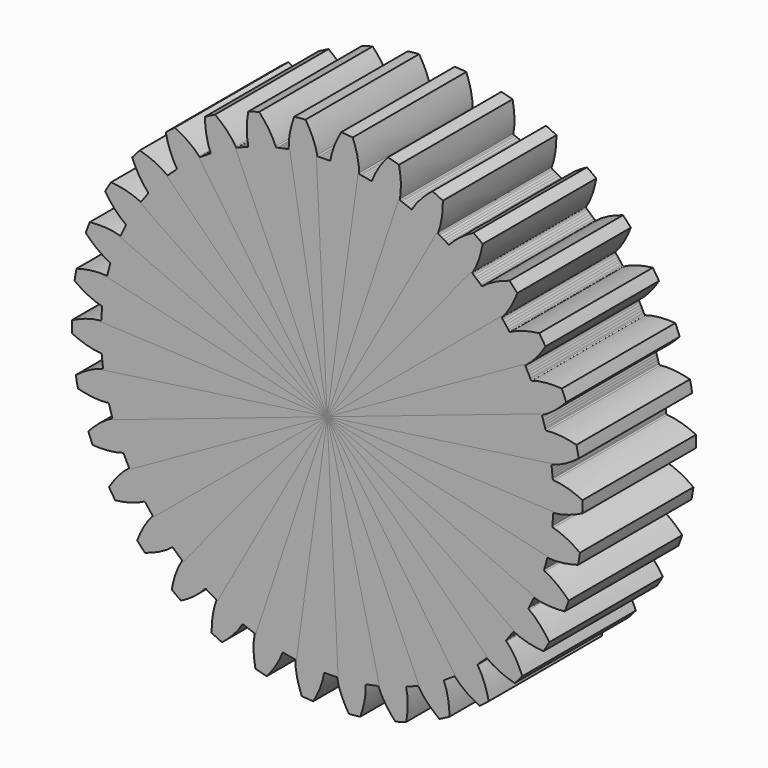
from build123d import *

# Parameters (mm, degrees)
F1_DEPTH = 25
F2_R     = 0.2
F3_COUNT = 34


with BuildPart() as f1:
    # F0 (on Front) → F1 (new body)
    with BuildSketch(Plane.XZ):
        with BuildLine():
            add(Edge.make_bspline(
                [(-1.7657643152, 39.9338909886), (-1.7743142635, 40.0118620388), (-1.8131479136, 40.1960055566), (-1.9222546364, 40.7090321432), (-2.1336710702, 41.4365465137), (-2.4984554805, 42.3913547833), (-3.0385414573, 43.5385206991), (-3.5445909033, 44.3920368913), (-3.809343439, 44.838475694)],
                knots=[0, 0, 0, 0, 0.0922219855, 0.2228701109, 0.3827881039, 0.5674285522, 0.7738514911, 1, 1, 1, 1], degree=3))
            ThreePointArc((-3.809343439, 44.838475694), (-4.8189838537, 44.7412270129), (-5.8261759127, 44.6212468924))
            add(Edge.make_bspline(
                [(-6.7784747845, 39.3939824428), (-6.7867245161, 39.4719858287), (-6.7879940721, 39.6601752964), (-6.7906364793, 40.1846689315), (-6.7389899354, 40.9405172643), (-6.5858942464, 41.9511053148), (-6.3024793733, 43.1869687823), (-5.9897890049, 44.1286697251), (-5.8261759127, 44.6212468924)],
                knots=[0, 0, 0, 0, 0.0922219855, 0.2228701109, 0.3827881039, 0.5674285522, 0.7738514911, 1, 1, 1, 1], degree=3))
            Line((-6.7784747845, 39.3939824428), (-6.756653635, 39.273020404))
            ThreePointArc((-6.756653635, 39.273020404), (-7.9820522362, 39.0424044098), (-9.1996358481, 38.7735631618))
            Line((-9.1996358481, 38.7735631618), (0, 0))
            Line((0, 0), (0.7319806767, 39.8432767765))
            ThreePointArc((0.7319806767, 39.8432767765), (-0.5149250671, 39.8466730377), (-1.7613266632, 39.8110566098))
            Line((-1.7613266632, 39.8110566098), (-1.7657643152, 39.9338909886))
        make_face()
    extrude(amount=F1_DEPTH)

    # F2
    f2_edges = [f1.edges().sort_by_distance(p)[0] for p in [
        (-1.761327, -12.5, 39.811057),
        (-6.756654, -12.5, 39.27302),
    ]]
    fillet(f2_edges, radius=F2_R)


with BuildPart() as f3_1:
    # F3: instance of F1
    add(f1.part.rotate(Axis((0, -12.5, 0), (0, 1, 0)), 1 * 360 / F3_COUNT))


with BuildPart() as f3_2:
    # F3: instance of F1
    add(f1.part.rotate(Axis((0, -12.5, 0), (0, 1, 0)), 2 * 360 / F3_COUNT))


with BuildPart() as f3_3:
    # F3: instance of F1
    add(f1.part.rotate(Axis((0, -12.5, 0), (0, 1, 0)), 3 * 360 / F3_COUNT))


with BuildPart() as f3_4:
    # F3: instance of F1
    add(f1.part.rotate(Axis((0, -12.5, 0), (0, 1, 0)), 4 * 360 / F3_COUNT))


with BuildPart() as f3_5:
    # F3: instance of F1
    add(f1.part.rotate(Axis((0, -12.5, 0), (0, 1, 0)), 5 * 360 / F3_COUNT))


with BuildPart() as f3_6:
    # F3: instance of F1
    add(f1.part.rotate(Axis((0, -12.5, 0), (0, 1, 0)), 6 * 360 / F3_COUNT))


with BuildPart() as f3_7:
    # F3: instance of F1
    add(f1.part.rotate(Axis((0, -12.5, 0), (0, 1, 0)), 7 * 360 / F3_COUNT))


with BuildPart() as f3_8:
    # F3: instance of F1
    add(f1.part.rotate(Axis((0, -12.5, 0), (0, 1, 0)), 8 * 360 / F3_COUNT))


with BuildPart() as f3_9:
    # F3: instance of F1
    add(f1.part.rotate(Axis((0, -12.5, 0), (0, 1, 0)), 9 * 360 / F3_COUNT))


with BuildPart() as f3_10:
    # F3: instance of F1
    add(f1.part.rotate(Axis((0, -12.5, 0), (0, 1, 0)), 10 * 360 / F3_COUNT))


with BuildPart() as f3_11:
    # F3: instance of F1
    add(f1.part.rotate(Axis((0, -12.5, 0), (0, 1, 0)), 11 * 360 / F3_COUNT))


with BuildPart() as f3_12:
    # F3: instance of F1
    add(f1.part.rotate(Axis((0, -12.5, 0), (0, 1, 0)), 12 * 360 / F3_COUNT))


with BuildPart() as f3_13:
    # F3: instance of F1
    add(f1.part.rotate(Axis((0, -12.5, 0), (0, 1, 0)), 13 * 360 / F3_COUNT))


with BuildPart() as f3_14:
    # F3: instance of F1
    add(f1.part.rotate(Axis((0, -12.5, 0), (0, 1, 0)), 14 * 360 / F3_COUNT))


with BuildPart() as f3_15:
    # F3: instance of F1
    add(f1.part.rotate(Axis((0, -12.5, 0), (0, 1, 0)), 15 * 360 / F3_COUNT))


with BuildPart() as f3_16:
    # F3: instance of F1
    add(f1.part.rotate(Axis((0, -12.5, 0), (0, 1, 0)), 16 * 360 / F3_COUNT))


with BuildPart() as f3_17:
    # F3: instance of F1
    add(f1.part.rotate(Axis((0, -12.5, 0), (0, 1, 0)), 17 * 360 / F3_COUNT))


with BuildPart() as f3_18:
    # F3: instance of F1
    add(f1.part.rotate(Axis((0, -12.5, 0), (0, 1, 0)), 18 * 360 / F3_COUNT))


with BuildPart() as f3_19:
    # F3: instance of F1
    add(f1.part.rotate(Axis((0, -12.5, 0), (0, 1, 0)), 19 * 360 / F3_COUNT))


with BuildPart() as f3_20:
    # F3: instance of F1
    add(f1.part.rotate(Axis((0, -12.5, 0), (0, 1, 0)), 20 * 360 / F3_COUNT))


with BuildPart() as f3_21:
    # F3: instance of F1
    add(f1.part.rotate(Axis((0, -12.5, 0), (0, 1, 0)), 21 * 360 / F3_COUNT))


with BuildPart() as f3_22:
    # F3: instance of F1
    add(f1.part.rotate(Axis((0, -12.5, 0), (0, 1, 0)), 22 * 360 / F3_COUNT))


with BuildPart() as f3_23:
    # F3: instance of F1
    add(f1.part.rotate(Axis((0, -12.5, 0), (0, 1, 0)), 23 * 360 / F3_COUNT))


with BuildPart() as f3_24:
    # F3: instance of F1
    add(f1.part.rotate(Axis((0, -12.5, 0), (0, 1, 0)), 24 * 360 / F3_COUNT))


with BuildPart() as f3_25:
    # F3: instance of F1
    add(f1.part.rotate(Axis((0, -12.5, 0), (0, 1, 0)), 25 * 360 / F3_COUNT))


with BuildPart() as f3_26:
    # F3: instance of F1
    add(f1.part.rotate(Axis((0, -12.5, 0), (0, 1, 0)), 26 * 360 / F3_COUNT))


with BuildPart() as f3_27:
    # F3: instance of F1
    add(f1.part.rotate(Axis((0, -12.5, 0), (0, 1, 0)), 27 * 360 / F3_COUNT))


with BuildPart() as f3_28:
    # F3: instance of F1
    add(f1.part.rotate(Axis((0, -12.5, 0), (0, 1, 0)), 28 * 360 / F3_COUNT))


with BuildPart() as f3_29:
    # F3: instance of F1
    add(f1.part.rotate(Axis((0, -12.5, 0), (0, 1, 0)), 29 * 360 / F3_COUNT))


with BuildPart() as f3_30:
    # F3: instance of F1
    add(f1.part.rotate(Axis((0, -12.5, 0), (0, 1, 0)), 30 * 360 / F3_COUNT))


with BuildPart() as f3_31:
    # F3: instance of F1
    add(f1.part.rotate(Axis((0, -12.5, 0), (0, 1, 0)), 31 * 360 / F3_COUNT))


with BuildPart() as f3_32:
    # F3: instance of F1
    add(f1.part.rotate(Axis((0, -12.5, 0), (0, 1, 0)), 32 * 360 / F3_COUNT))


with BuildPart() as f3_33:
    # F3: instance of F1
    add(f1.part.rotate(Axis((0, -12.5, 0), (0, 1, 0)), 33 * 360 / F3_COUNT))


solid = Compound([f1.part, f3_1.part, f3_2.part, f3_3.part, f3_4.part, f3_5.part, f3_6.part, f3_7.part, f3_8.part, f3_9.part, f3_10.part, f3_11.part, f3_12.part, f3_13.part, f3_14.part, f3_15.part, f3_16.part, f3_17.part, f3_18.part, f3_19.part, f3_20.part, f3_21.part, f3_22.part, f3_23.part, f3_24.part, f3_25.part, f3_26.part, f3_27.part, f3_28.part, f3_29.part, f3_30.part, f3_31.part, f3_32.part, f3_33.part])
